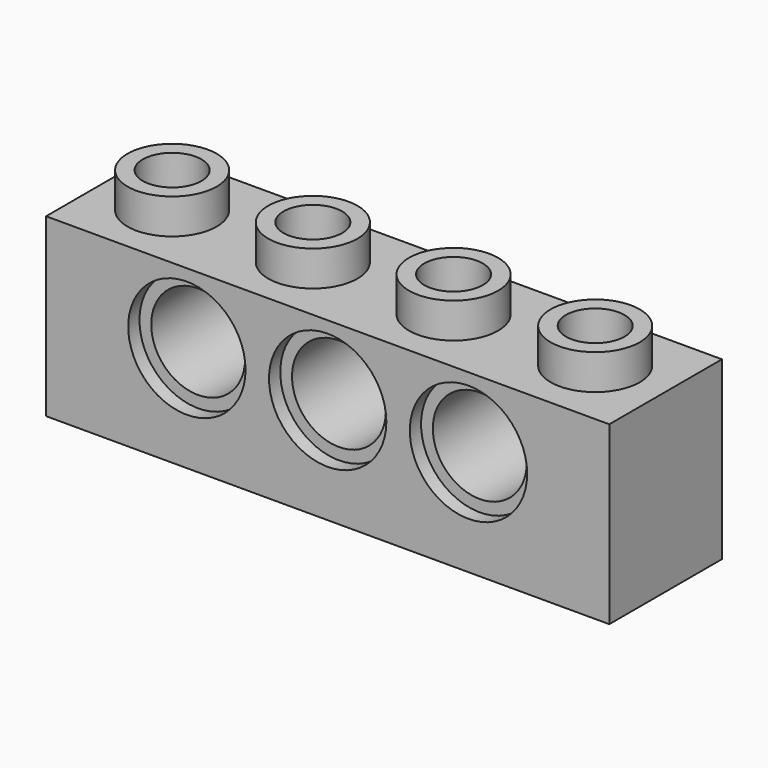
from build123d import *

# Parameters (mm, degrees)
F0_W     = 30.48
F0_H     = 9.525
F1_DEPTH = 7.62
F2_R     = 3.175
F2_R_2   = 2.54
F3_DEPTH = 0.762
F4_DEPTH = 10.16
F5_R     = 2.413
F5_R_2   = 1.5875
F6_DEPTH = 1.905


with BuildPart() as f1:
    # F0 (on Front) → F1 (new body)
    with BuildSketch(Plane.XZ):
        with Locations((15.24, 4.7625)):
            Rectangle(F0_W, F0_H)
    extrude(amount=-F1_DEPTH)

    # F2 (on face) → F3 (cut)
    with BuildSketch(Plane.XZ):
        with Locations((7.62, 5.715)):
            Circle(F2_R)
        with Locations((7.62, 5.715)):
            Circle(F2_R_2, mode=Mode.SUBTRACT)
        with Locations((15.24, 5.715)):
            Circle(F2_R)
        with Locations((15.24, 5.715)):
            Circle(F2_R_2, mode=Mode.SUBTRACT)
        with Locations((22.86, 5.715)):
            Circle(F2_R)
        with Locations((22.86, 5.715)):
            Circle(F2_R_2, mode=Mode.SUBTRACT)
    extrude(amount=-F3_DEPTH, mode=Mode.SUBTRACT)

    # F4 (cut): faces of the model
    f4_faces = [f1.faces().sort_by_distance(p)[0] for p in [
        (7.62, 0, 5.715),
        (15.24, 0, 5.715),
        (22.86, 0, 5.715),
    ]]
    extrude(f4_faces, amount=-F4_DEPTH, mode=Mode.SUBTRACT)

    # F5 (on face) → F6 (join)
    with BuildSketch(Plane.XY.offset(9.525)):
        with Locations((3.81, 3.7642538082)):
            Circle(F5_R)
        with Locations((3.81, 3.7642538082)):
            Circle(F5_R_2, mode=Mode.SUBTRACT)
        with Locations((11.43, 3.7592)):
            Circle(F5_R)
        with Locations((11.43, 3.7592)):
            Circle(F5_R_2, mode=Mode.SUBTRACT)
        with Locations((19.05, 3.7541461918)):
            Circle(F5_R)
        with Locations((19.05, 3.7541461918)):
            Circle(F5_R_2, mode=Mode.SUBTRACT)
        with Locations((26.67, 3.81)):
            Circle(F5_R)
        with Locations((26.67, 3.81)):
            Circle(F5_R_2, mode=Mode.SUBTRACT)
    extrude(amount=F6_DEPTH)


solid = f1.part
